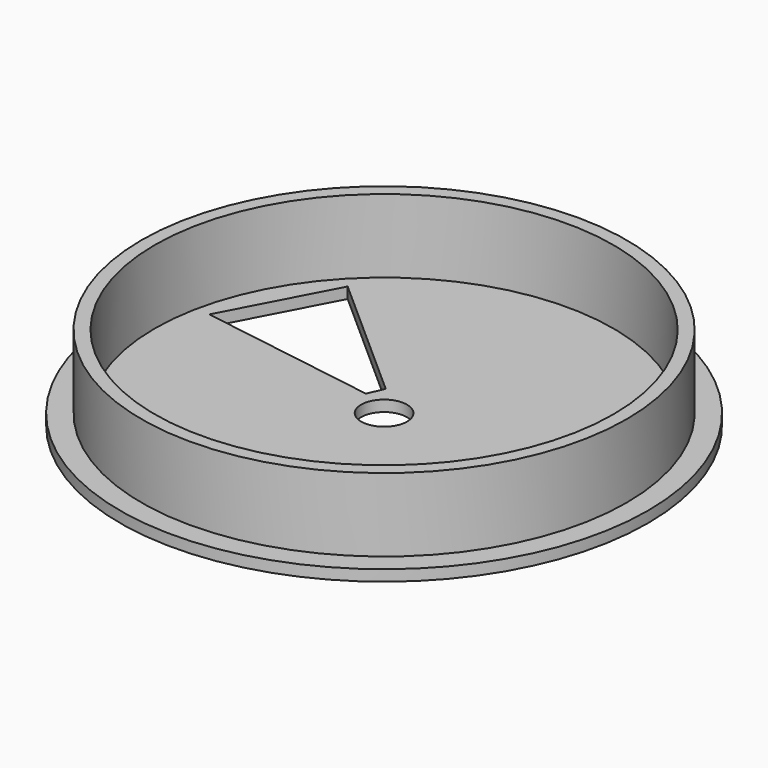
from build123d import *

# Parameters (mm, degrees)
F0_R     = 41.91
F0_R_2   = 39.624
F1_DEPTH = 12.7
F2_R     = 45.609327
F4_DEPTH = 1.905
F3_R     = 3.96875
F5_DEPTH = 25.4
F7_DEPTH = 5.334


with BuildPart() as f1:
    # F0 (on Top) → F1 (new body)
    with BuildSketch(Plane.XY):
        Circle(F0_R)
        Circle(F0_R_2, mode=Mode.SUBTRACT)
    extrude(amount=F1_DEPTH)

    # F2 (on Top) → F4 (join)
    with BuildSketch(Plane.XY):
        Circle(F2_R)
    extrude(amount=-F4_DEPTH)

    # F3 (on Top) → F5 (cut)
    with BuildSketch(Plane.XY):
        Circle(F3_R)
    extrude(amount=-F5_DEPTH, mode=Mode.SUBTRACT)

    # F6 (on Top) → F7 (cut)
    with BuildSketch(Plane.XY):
        Polygon((-5.480623, 2.9152), (-4.250295, 5.673185), (-26.960552, 25.830237), (-36.436632, 7.79836), align=None)
    extrude(amount=-F7_DEPTH, mode=Mode.SUBTRACT)


solid = f1.part
